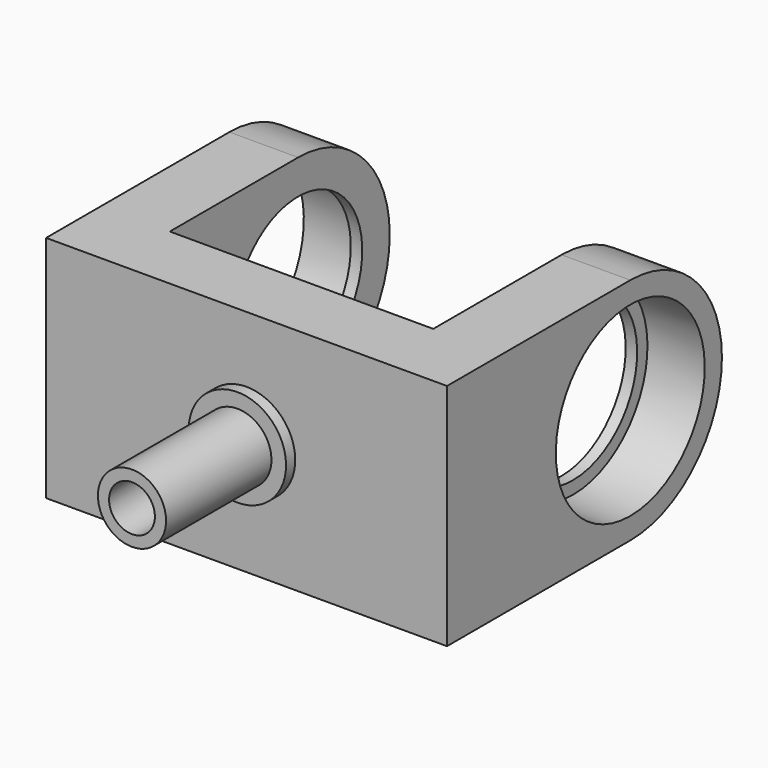
from build123d import *

# Parameters (mm, degrees)
SKETCH005_AS_DRAWN_R                 = 10
EXTRUDE005_DEPTH                     = 5
EXTRUDE005_ONTO_SKETCH005_ROLL_ANGLE = 90
SKETCH001_AS_DRAWN_W                 = 40
SKETCH001_AS_DRAWN_H                 = 70
SKETCH001_AS_DRAWN_R                 = 3.5
EXTRUDE002_DEPTH                     = 12
EXTRUDE002_ONTO_SKETCH001_ROLL_ANGLE = 90
SKETCH004_AS_DRAWN_R                 = 8.5
SKETCH004_AS_DRAWN_R_2               = 3.5
EXTRUDE004_DEPTH                     = 2
EXTRUDE004_ONTO_SKETCH004_ROLL_ANGLE = 90
SKETCH003_AS_DRAWN_R                 = 5.95
SKETCH003_AS_DRAWN_R_2               = 4
EXTRUDE003_DEPTH                     = 25
EXTRUDE003_ONTO_SKETCH003_ROLL_ANGLE = 90
CYLINDER001_R                        = 16.25
CYLINDER001_DEPTH                    = 10
SKETCH_R                             = 14
EXTRUDE_DEPTH                        = 12
CYLINDER_R                           = 16.25
CYLINDER_DEPTH                       = 10
EXTRUDE001_DEPTH                     = 12
FUSION_PITCH_ANGLE                   = 90


with BuildPart() as contra_nut_cut:
    # Sketch005 as drawn → Extrude005 (new)
    with BuildSketch(Plane.XY):
        Circle(SKETCH005_AS_DRAWN_R)
    extrude(amount=-EXTRUDE005_DEPTH)


with BuildPart() as contra_nut_cut_1:
    # Extrude005 onto Sketch005 roll: moved
    add(contra_nut_cut.part.rotate(Axis((0, 0, 0), (1, 0, 0)), EXTRUDE005_ONTO_SKETCH005_ROLL_ANGLE))


with BuildPart() as contra_nut_cut_2:
    # Extrude005 onto Sketch005 placement: moved
    add(contra_nut_cut_1.part)


with BuildPart() as contra_nut_cut_3:
    # Extrude005 placement: moved
    add(contra_nut_cut_2.part.moved(Location((0, -33, 0))))


with BuildPart() as nut_cut:
    # Sketch001 as drawn → Extrude002 (new)
    with BuildSketch(Plane.XY):
        Rectangle(SKETCH001_AS_DRAWN_W, SKETCH001_AS_DRAWN_H)
        Circle(SKETCH001_AS_DRAWN_R, mode=Mode.SUBTRACT)
    extrude(amount=-EXTRUDE002_DEPTH)


with BuildPart() as nut_cut_1:
    # Extrude002 onto Sketch001 roll: moved
    add(nut_cut.part.rotate(Axis((0, 0, 0), (1, 0, 0)), EXTRUDE002_ONTO_SKETCH001_ROLL_ANGLE))


with BuildPart() as nut_cut_2:
    # Extrude002 onto Sketch001 placement: moved
    add(nut_cut_1.part)


with BuildPart() as nut_cut_3:
    # Extrude002 placement: moved
    add(nut_cut_2.part.moved(Location((0, -40, 0))))

    # Cut002: cut contra-nut-cut
    add(contra_nut_cut_3.part, mode=Mode.SUBTRACT)


with BuildPart() as z_bearings_pad:
    # Sketch004 as drawn → Extrude004 (new)
    with BuildSketch(Plane.XY):
        Circle(SKETCH004_AS_DRAWN_R)
        Circle(SKETCH004_AS_DRAWN_R_2, mode=Mode.SUBTRACT)
    extrude(amount=-EXTRUDE004_DEPTH)


with BuildPart() as z_bearings_pad_1:
    # Extrude004 onto Sketch004 roll: moved
    add(z_bearings_pad.part.rotate(Axis((0, 0, 0), (1, 0, 0)), EXTRUDE004_ONTO_SKETCH004_ROLL_ANGLE))


with BuildPart() as z_bearings_pad_2:
    # Extrude004 onto Sketch004 placement: moved
    add(z_bearings_pad_1.part)


with BuildPart() as z_bearings_pad_3:
    # Extrude004 placement: moved
    add(z_bearings_pad_2.part.moved(Location((0, -42, 0))))


with BuildPart() as z_bearings_cylinder:
    # Sketch003 as drawn → Extrude003 (new)
    with BuildSketch(Plane.XY):
        Circle(SKETCH003_AS_DRAWN_R)
        Circle(SKETCH003_AS_DRAWN_R_2, mode=Mode.SUBTRACT)
    extrude(amount=-EXTRUDE003_DEPTH)


with BuildPart() as z_bearings_cylinder_1:
    # Extrude003 onto Sketch003 roll: moved
    add(z_bearings_cylinder.part.rotate(Axis((0, 0, 0), (1, 0, 0)), EXTRUDE003_ONTO_SKETCH003_ROLL_ANGLE))


with BuildPart() as z_bearings_cylinder_2:
    # Extrude003 onto Sketch003 placement: moved
    add(z_bearings_cylinder_1.part)


with BuildPart() as z_bearings_cylinder_3:
    # Extrude003 placement: moved
    add(z_bearings_cylinder_2.part.moved(Location((0, -65, 0))))


with BuildPart() as cylinder001:
    # Cylinder001 → Cylinder001 (new body)
    with BuildSketch(Plane.XY.offset(2)):
        Circle(CYLINDER001_R)
    extrude(amount=CYLINDER001_DEPTH)


with BuildPart() as bearing_nest_r_cut:
    # Sketch → Extrude (new body)
    with BuildSketch(Plane.XY):
        with BuildLine():
            ThreePointArc((20, 0), (0, 20), (-20, 0))
            Line((-20, 0), (-20, -40))
            Line((-20, -40), (20, -40))
            Line((20, -40), (20, 0))
        make_face()
        Circle(SKETCH_R, mode=Mode.SUBTRACT)
    extrude(amount=EXTRUDE_DEPTH)

    # Cut001: cut Cylinder001
    add(cylinder001.part, mode=Mode.SUBTRACT)


with BuildPart() as bearing_nest_r_cut_1:
    # Cut001 placement: moved
    add(bearing_nest_r_cut.part.moved(Location((0, 0, 23))))


with BuildPart() as cylinder:
    # Cylinder → Cylinder (new body)
    with BuildSketch(Plane.XY):
        Circle(CYLINDER_R)
    extrude(amount=CYLINDER_DEPTH)


with BuildPart() as fusion:
    # Sketch → Extrude001 (new body)
    with BuildSketch(Plane.XY):
        with BuildLine():
            ThreePointArc((20, 0), (0, 20), (-20, 0))
            Line((-20, 0), (-20, -40))
            Line((-20, -40), (20, -40))
            Line((20, -40), (20, 0))
        make_face()
        Circle(SKETCH_R, mode=Mode.SUBTRACT)
    extrude(amount=EXTRUDE001_DEPTH)

    # Cut: cut Cylinder
    add(cylinder.part, mode=Mode.SUBTRACT)


with BuildPart() as fusion_1:
    # Cut placement: moved
    add(fusion.part.moved(Location((0, 0, -35))))

    # Fusion: union nut-cut, z-bearings-pad, z-bearings-cylinder, bearing-nest-r-cut
    add(nut_cut_3.part)
    add(z_bearings_pad_3.part)
    add(z_bearings_cylinder_3.part)
    add(bearing_nest_r_cut_1.part)


with BuildPart() as fusion_2:
    # Fusion pitch: moved
    add(fusion_1.part.rotate(Axis((0, 0, 0), (0, 1, 0)), FUSION_PITCH_ANGLE))


with BuildPart() as fusion_3:
    # Fusion placement: moved
    add(fusion_2.part)


solid = fusion_3.part
